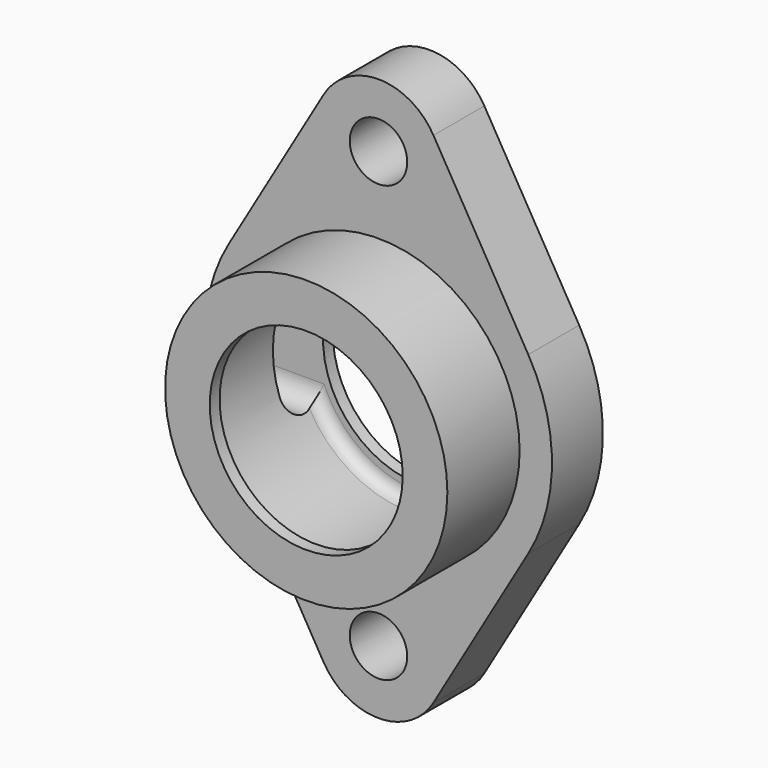
from build123d import *

# Parameters (mm, degrees)
F0_R     = 7.112
F1_DEPTH = 15.748
F2_R     = 34.925
F3_DEPTH = 22.352
F4_R     = 23.876
F5_DEPTH = 38.101
F7_DEPTH = 42.927


with BuildPart() as f1:
    # F0 (on Front) → F1 (new body)
    with BuildSketch(Plane.XZ):
        with BuildLine():
            ThreePointArc((13.59501, 61.796283), (0, 69.596), (-13.59501, 61.796283))
            Line((-13.59501, 61.796283), (-37.057366, 21.665481))
            ThreePointArc((-37.057366, 21.665481), (-42.926, 0), (-37.057366, -21.665481))
            Line((-37.057366, -21.665481), (-13.59501, -61.796283))
            ThreePointArc((-13.59501, -61.796283), (0, -69.596), (13.59501, -61.796283))
            Line((13.59501, -61.796283), (37.057366, -21.665481))
            ThreePointArc((37.057366, -21.665481), (42.926, 0), (37.057366, 21.665481))
            Line((37.057366, 21.665481), (13.59501, 61.796283))
        make_face()
        with Locations((0, -53.848)):
            Circle(F0_R, mode=Mode.SUBTRACT)
        with Locations((0, 53.848)):
            Circle(F0_R, mode=Mode.SUBTRACT)
    extrude(amount=F1_DEPTH)

    # F2 (on face) → F3 (join)
    with BuildSketch(Plane.XZ.offset(15.748)):
        Circle(F2_R)
    extrude(amount=F3_DEPTH)

    # F4 (on face) → F5 (cut, through all)
    with BuildSketch(Plane.XZ.offset(38.1)):
        Circle(F4_R)
    extrude(amount=-F5_DEPTH, mode=Mode.SUBTRACT)

    # F6 (on Right) → F7 (cut, through all)
    with BuildSketch(Plane.YZ):
        with BuildLine():
            Line((-3.048, -9.652), (-3.048, 9.652))
            ThreePointArc((-3.048, 9.652), (-7.874, 14.478), (-12.7, 9.652))
            Line((-12.7, 9.652), (-12.7, -9.652))
            ThreePointArc((-12.7, -9.652), (-7.874, -14.478), (-3.048, -9.652))
        make_face()
    extrude(amount=-F7_DEPTH, mode=Mode.SUBTRACT)

    # F8 (on Top) → F9 (revolve, cut)
    with BuildSketch(Plane.XY):
        with BuildLine():
            Line((0, -35.052), (0, -3.048))
            Line((0, -3.048), (-25.527, -3.048))
            ThreePointArc((-25.527, -3.048), (-27.682261, -3.940739), (-28.575, -6.096))
            Line((-28.575, -6.096), (-28.575, -32.004))
            ThreePointArc((-28.575, -32.004), (-27.682261, -34.159261), (-25.527, -35.052))
            Line((-25.527, -35.052), (0, -35.052))
        make_face()
    revolve(axis=Axis((0, -13.822473, 0), (0, -1, 0)), mode=Mode.SUBTRACT)


solid = f1.part
